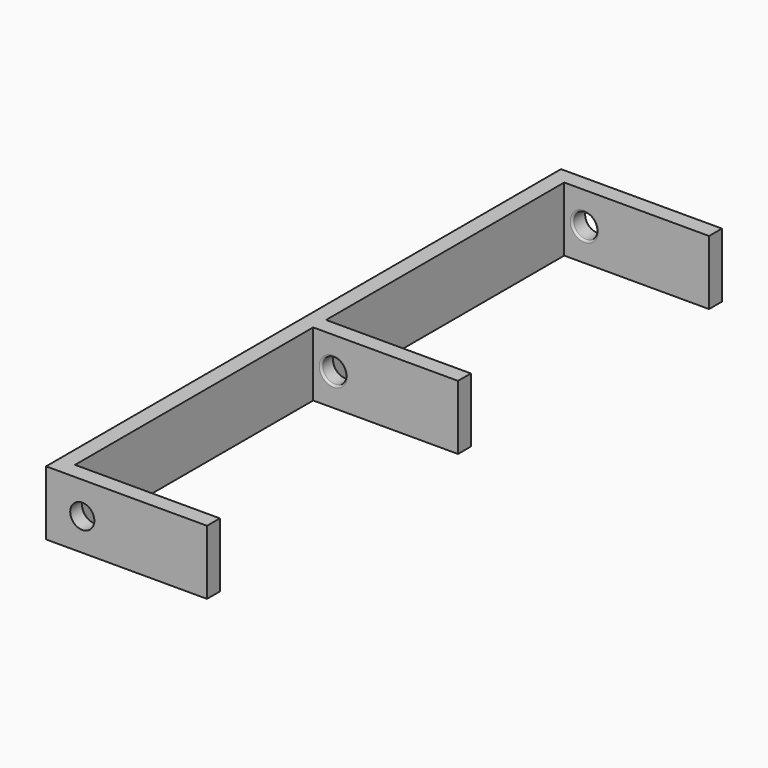
from build123d import *

# Parameters (mm, degrees)
F2_W     = 10
F2_H     = 40
F3_DEPTH = 4
F4_W     = 9
F4_H     = 18.5
F5_DEPTH = 4.001
F6_R     = 0.75
F7_DEPTH = 40.001
F8_R     = 0.125


with BuildPart() as f3:
    # F2 (on Top) → F3 (new body)
    with BuildSketch(Plane.XY):
        Rectangle(F2_W, F2_H)
    extrude(amount=F3_DEPTH)

    # F4 (on face) → F5 (cut, through all)
    with BuildSketch(Plane.XY.offset(4)):
        with Locations((0.5, 9.75)):
            Rectangle(F4_W, F4_H)
        with Locations((0.5, -9.75)):
            Rectangle(F4_W, F4_H)
    extrude(amount=-F5_DEPTH, mode=Mode.SUBTRACT)

    # F6 (on face) → F7 (cut, through all)
    with BuildSketch(Plane.XZ.offset(20)):
        with Locations((-2.75, 2)):
            Circle(F6_R)
    extrude(amount=-F7_DEPTH, mode=Mode.SUBTRACT)

    # F8
    f8_edges = [f3.edges().sort_by_distance(p)[0] for p in [
        (-3.5, -19, 2),
        (-3.5, -0.5, 2),
        (-3.5, 19, 2),
        (-3.5, 0.5, 2),
    ]]
    fillet(f8_edges, radius=F8_R)


solid = f3.part
